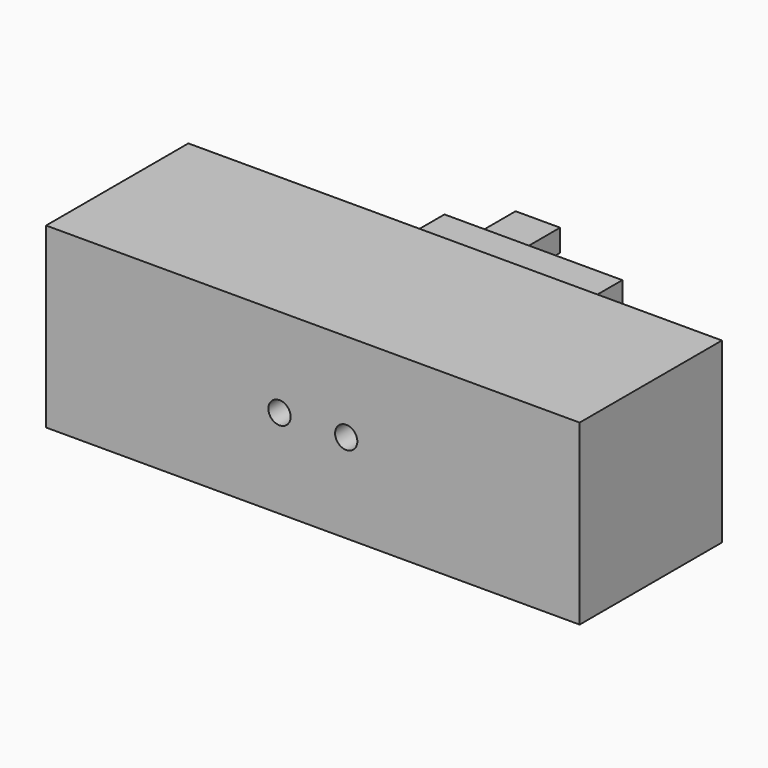
from build123d import *

# Parameters (mm, degrees)
F0_W     = 76.2
F0_H     = 25.4
F0_R     = 1.5875
F1_DEPTH = 25.4
F2_R     = 2.54
F3_DEPTH = 7.62
F4_W     = 25.4
F4_H     = 12.7
F5_DEPTH = 6.35
F6_W     = 6.35
F6_H     = 3.175
F7_DEPTH = 12.7
F8_DEPTH = 19.05


with BuildPart() as f1:
    # F0 (on Front) → F1 (new body)
    with BuildSketch(Plane.XZ):
        Rectangle(F0_W, F0_H)
        with Locations((-4.7625, 0)):
            Circle(F0_R, mode=Mode.SUBTRACT)
        with Locations((4.7625, 0)):
            Circle(F0_R, mode=Mode.SUBTRACT)
        with Locations((-4.7625, 0)):
            Circle(F0_R)
        with Locations((4.7625, 0)):
            Circle(F0_R)
    extrude(amount=-F1_DEPTH)

    # F2 (on face) → F3 (join)
    with BuildSketch(Plane(origin=(0, 25.4, 0), x_dir=(-1, 0, 0), z_dir=(0, 1, 0))):
        Circle(F2_R)
    extrude(amount=F3_DEPTH)

    # F4 (on face) → F5 (join)
    with BuildSketch(Plane(origin=(0, 33.02, 0), x_dir=(-1, 0, 0), z_dir=(0, 1, 0))):
        Rectangle(F4_W, F4_H)
    extrude(amount=F5_DEPTH)

    # F6 (on face) → F7 (join)
    with BuildSketch(Plane(origin=(0, 39.37, 0), x_dir=(-1, 0, 0), z_dir=(0, 1, 0))):
        with Locations((9.525, 0)):
            Rectangle(F6_W, F6_H)
    extrude(amount=F7_DEPTH)

    # F0 (on Front) → F8 (cut)
    with BuildSketch(Plane.XZ):
        with Locations((-4.7625, 0)):
            Circle(F0_R)
        with Locations((4.7625, 0)):
            Circle(F0_R)
    extrude(amount=-F8_DEPTH, mode=Mode.SUBTRACT)


solid = f1.part
